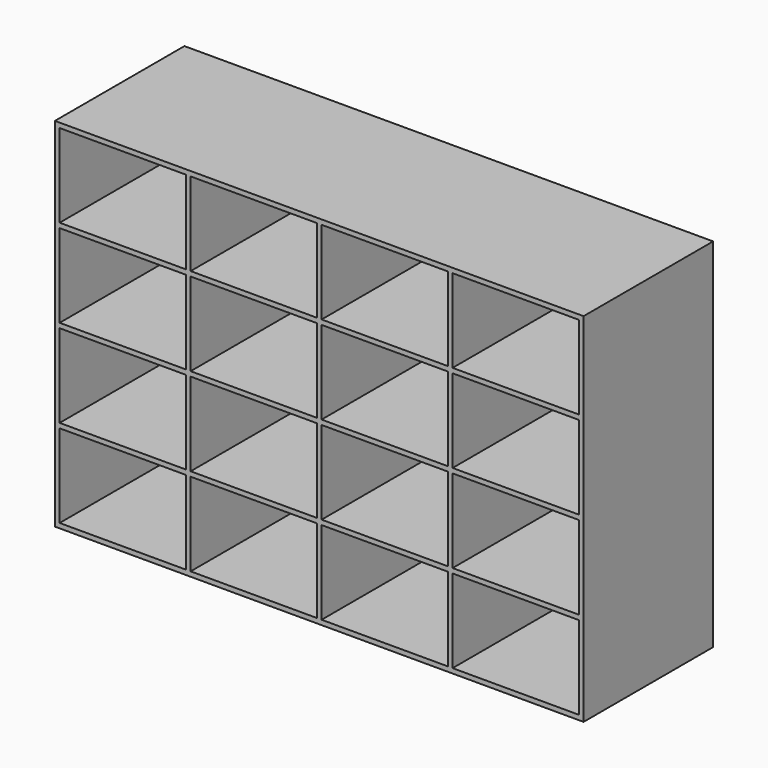
from build123d import *

# Parameters (mm, degrees)
F0_W     = 1110
F0_H     = 750
F0_W_2   = 265
F0_H_2   = 175
F1_DEPTH = 170


with BuildPart() as f1:
    # F0 (on Front) → F1 (new body, symmetric)
    with BuildSketch(Plane.XZ):
        Rectangle(F0_W, F0_H)
        with Locations((-412.5, -277.5)):
            Rectangle(F0_W_2, F0_H_2, mode=Mode.SUBTRACT)
        with Locations((-137.5, -277.5)):
            Rectangle(F0_W_2, F0_H_2, mode=Mode.SUBTRACT)
        with Locations((-412.5, -92.5)):
            Rectangle(F0_W_2, F0_H_2, mode=Mode.SUBTRACT)
        with Locations((-137.5, -92.5)):
            Rectangle(F0_W_2, F0_H_2, mode=Mode.SUBTRACT)
        with Locations((137.5, -277.5)):
            Rectangle(F0_W_2, F0_H_2, mode=Mode.SUBTRACT)
        with Locations((412.5, -277.5)):
            Rectangle(F0_W_2, F0_H_2, mode=Mode.SUBTRACT)
        with Locations((137.5, -92.5)):
            Rectangle(F0_W_2, F0_H_2, mode=Mode.SUBTRACT)
        with Locations((412.5, -92.5)):
            Rectangle(F0_W_2, F0_H_2, mode=Mode.SUBTRACT)
        with Locations((-412.5, 92.5)):
            Rectangle(F0_W_2, F0_H_2, mode=Mode.SUBTRACT)
        with Locations((-137.5, 92.5)):
            Rectangle(F0_W_2, F0_H_2, mode=Mode.SUBTRACT)
        with Locations((-412.5, 277.5)):
            Rectangle(F0_W_2, F0_H_2, mode=Mode.SUBTRACT)
        with Locations((-137.5, 277.5)):
            Rectangle(F0_W_2, F0_H_2, mode=Mode.SUBTRACT)
        with Locations((137.5, 92.5)):
            Rectangle(F0_W_2, F0_H_2, mode=Mode.SUBTRACT)
        with Locations((412.5, 92.5)):
            Rectangle(F0_W_2, F0_H_2, mode=Mode.SUBTRACT)
        with Locations((137.5, 277.5)):
            Rectangle(F0_W_2, F0_H_2, mode=Mode.SUBTRACT)
        with Locations((412.5, 277.5)):
            Rectangle(F0_W_2, F0_H_2, mode=Mode.SUBTRACT)
    extrude(amount=F1_DEPTH, both=True)


solid = f1.part
